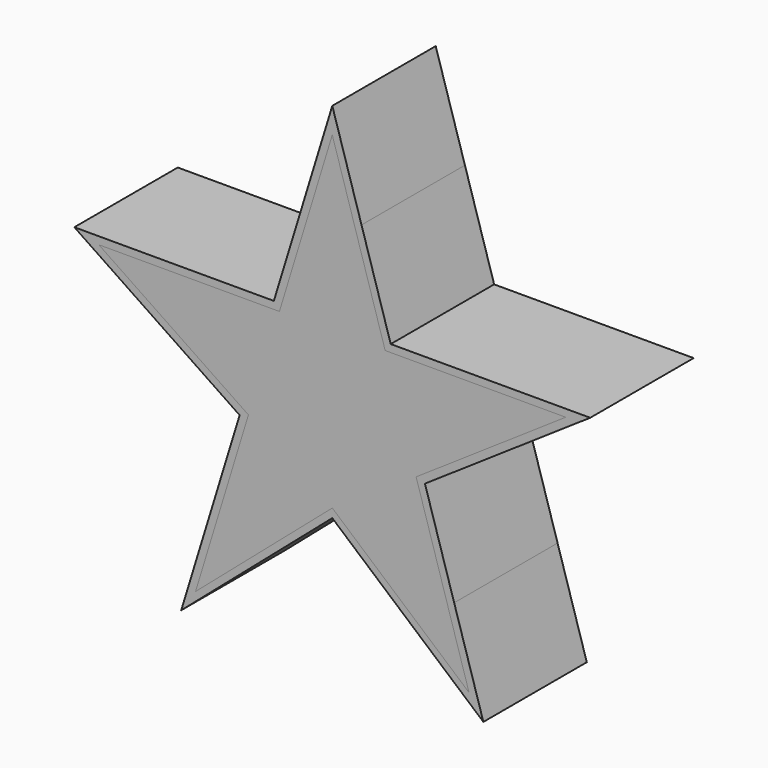
from build123d import *

# Parameters (mm, degrees)
F1_DEPTH = 10.1
F2_DEPTH = 10.1


with BuildPart() as f1:
    # F0 (on Front) → F1 (new body)
    with BuildSketch(Plane.XZ):
        Polygon((-37.377242, 35.785412), (-37.377242, 61.452083), (-39.099702, 55.828232), (-41.509037, 47.961724), (-49.736237, 47.961724), (-55.617953, 47.961724), (-50.745082, 44.667835), (-43.929028, 40.060424), (-46.338363, 32.193916), (-48.060823, 26.570065), (-42.740583, 31.159149), align=None)
        Polygon((-35.654782, 55.828232), (-37.377242, 61.452083), (-37.377242, 35.785412), (-32.013901, 31.159149), (-26.693661, 26.570065), (-28.416121, 32.193916), (-30.825456, 40.060424), (-24.009402, 44.667835), (-19.136531, 47.961724), (-25.018247, 47.961724), (-33.245447, 47.961724), align=None)
    extrude(amount=F1_DEPTH)


with BuildPart() as f2:
    # F0 (on Front) → F2 (new body)
    with BuildSketch(Plane.XZ):
        Polygon((-23.681398, 44.182596), (-17.224214, 48.547424), (-19.136531, 47.961724), (-24.009402, 44.667835), align=None)
        Polygon((-30.138581, 39.817768), (-23.681398, 44.182596), (-24.009402, 44.667835), (-30.825456, 40.060424), align=None)
        Polygon((-26.693661, 26.570065), (-32.013901, 31.159149), (-32.35558, 30.763033), (-25.573618, 24.913109), align=None)
        Polygon((-28.416121, 32.193916), (-26.693661, 26.570065), (-25.573618, 24.913109), (-27.856099, 32.365439), align=None)
        Polygon((-32.812279, 48.547424), (-35.09476, 55.999754), (-35.654782, 55.828232), (-33.245447, 47.961724), align=None)
        Polygon((-37.377242, 61.452083), (-37.377242, 63.452083), (-39.659724, 55.999754), (-39.099702, 55.828232), align=None)
        Polygon((-35.09476, 55.999754), (-37.377242, 63.452083), (-37.377242, 61.452083), (-35.654782, 55.828232), align=None)
        Polygon((-39.099702, 55.828232), (-39.659724, 55.999754), (-41.942205, 48.547424), (-41.509037, 47.961724), align=None)
        Polygon((-55.617953, 47.961724), (-57.53027, 48.547424), (-51.073086, 44.182596), (-50.745082, 44.667835), align=None)
        Polygon((-50.745082, 44.667835), (-51.073086, 44.182596), (-44.615903, 39.817768), (-43.929028, 40.060424), align=None)
        Polygon((-46.898385, 32.365439), (-46.338363, 32.193916), (-43.929028, 40.060424), (-44.615903, 39.817768), align=None)
        Polygon((-49.180866, 24.913109), (-48.060823, 26.570065), (-46.338363, 32.193916), (-46.898385, 32.365439), align=None)
        Polygon((-42.398904, 30.763033), (-42.740583, 31.159149), (-48.060823, 26.570065), (-49.180866, 24.913109), align=None)
        Polygon((-37.377242, 35.094573), (-37.377242, 35.785412), (-42.740583, 31.159149), (-42.398904, 30.763033), align=None)
        Polygon((-32.013901, 31.159149), (-37.377242, 35.785412), (-37.377242, 35.094573), (-32.35558, 30.763033), align=None)
        Polygon((-30.825456, 40.060424), (-28.416121, 32.193916), (-27.856099, 32.365439), (-30.138581, 39.817768), align=None)
        Polygon((-41.509037, 47.961724), (-41.942205, 48.547424), (-49.736237, 48.547424), (-49.736237, 47.961724), align=None)
        Polygon((-49.736237, 47.961724), (-49.736237, 48.547424), (-57.53027, 48.547424), (-55.617953, 47.961724), align=None)
        Polygon((-17.224214, 48.547424), (-25.018247, 48.547424), (-25.018247, 47.961724), (-19.136531, 47.961724), align=None)
        Polygon((-25.018247, 48.547424), (-32.812279, 48.547424), (-33.245447, 47.961724), (-25.018247, 47.961724), align=None)
    extrude(amount=F2_DEPTH)


solid = Compound([f1.part, f2.part])
